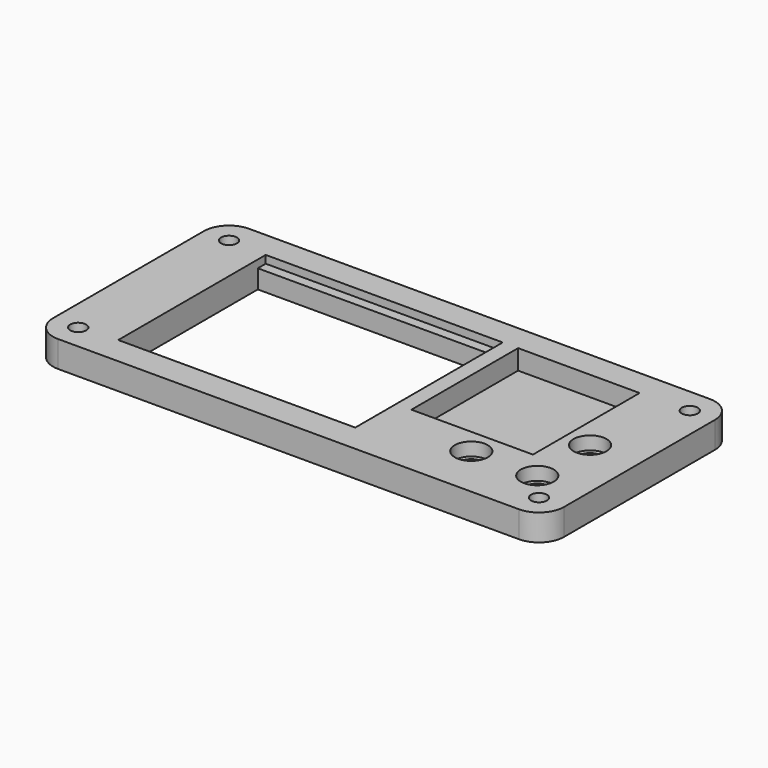
from build123d import *

# Parameters (mm, degrees)
F0_R      = 2.413
F1_DEPTH  = 8
F2_W      = 69.36
F2_H      = 50.39
F3_DEPTH  = 25.4
F4_W      = 69.36
F4_H      = 50.39
F5_DEPTH  = 2.35
F6_DEPTH  = 2
F7_R      = 5
F8_DEPTH  = 6
F9_R      = 3.625
F10_DEPTH = 25.4
F11_R     = 3.625
F12_DEPTH = 25.4
F13_R     = 3.625
F14_DEPTH = 25.4
F15_R     = 2.413
F15_R_2   = 5
F15_W     = 71.86
F15_H     = 55.89
F16_DEPTH = 2
F17_W     = 36.8478260934
F17_H     = 40.4230296794
F18_DEPTH = 6


with BuildPart() as f1:
    # F0 (on Top) → F1 (new body)
    with BuildSketch(Plane.XY):
        with BuildLine():
            ThreePointArc((-69.85, 36.195), (-75.2381536726, 33.9631536726), (-77.47, 28.575))
            Line((-77.47, 28.575), (-77.47, 0))
            Line((-77.47, 0), (-77.47, -28.575))
            ThreePointArc((-77.47, -28.575), (-75.2381536726, -33.9631536726), (-69.85, -36.195))
            Line((-69.85, -36.195), (0, -36.195))
            Line((0, -36.195), (69.85, -36.195))
            ThreePointArc((69.85, -36.195), (75.2381536726, -33.9631536726), (77.47, -28.575))
            Line((77.47, -28.575), (77.47, 0))
            Line((77.47, 0), (77.47, 28.575))
            ThreePointArc((77.47, 28.575), (75.2381536726, 33.9631536726), (69.85, 36.195))
            Line((69.85, 36.195), (0, 36.195))
            Line((0, 36.195), (-69.85, 36.195))
        make_face()
        with Locations((-69.85, -28.575)):
            Circle(F0_R, mode=Mode.SUBTRACT)
        with Locations((69.85, -28.575)):
            Circle(F0_R, mode=Mode.SUBTRACT)
        with Locations((-69.85, 28.575)):
            Circle(F0_R, mode=Mode.SUBTRACT)
        with Locations((69.85, 28.575)):
            Circle(F0_R, mode=Mode.SUBTRACT)
    extrude(amount=F1_DEPTH)

    # F2 (on face) → F3 (cut)
    with BuildSketch(Plane(origin=(0, 0, 0), x_dir=(1, 0, 0), z_dir=(0, 0, -1))):
        with Locations((-23.74, 0.000232)):
            Rectangle(F2_W, F2_H)
    extrude(amount=-F3_DEPTH, mode=Mode.SUBTRACT)

    # F4 (on face) → F5 (cut)
    with BuildSketch(Plane.XY.offset(8)):
        with Locations((-23.74, -0.000232)):
            Rectangle(F4_W, F4_H)
        Polygon((-58.42, -25.195232), (-58.42, -27.695232), (13.44, -27.695232), (13.44, 28.194768), (-58.42, 28.194768), (-58.42, 25.194768), (10.94, 25.194768), (10.94, -25.195232), align=None)
    extrude(amount=-F5_DEPTH, mode=Mode.SUBTRACT)

    # F6 (add): a face of the model
    f6_faces = [f1.faces().sort_by_distance(p)[0] for p in [
        (-74.0288829068, 32.7538829068, 8),
    ]]
    extrude(f6_faces, amount=F6_DEPTH)

    # F7 (on face) → F8 (cut)
    with BuildSketch(Plane.XY.offset(10)):
        with Locations((62.47, -20)):
            Circle(F7_R)
        with Locations((42.47, -20)):
            Circle(F7_R)
        with Locations((62.47, 0)):
            Circle(F7_R)
    extrude(amount=-F8_DEPTH, mode=Mode.SUBTRACT)

    # F9 (on face) → F10 (cut)
    with BuildSketch(Plane.XY.offset(4)):
        with Locations((62.47, 0)):
            Circle(F9_R)
    extrude(amount=-F10_DEPTH, mode=Mode.SUBTRACT)

    # F11 (on face) → F12 (cut)
    with BuildSketch(Plane.XY.offset(4)):
        with Locations((62.47, -20)):
            Circle(F11_R)
    extrude(amount=-F12_DEPTH, mode=Mode.SUBTRACT)

    # F13 (on face) → F14 (cut)
    with BuildSketch(Plane.XY.offset(4)):
        with Locations((42.47, -20)):
            Circle(F13_R)
    extrude(amount=-F14_DEPTH, mode=Mode.SUBTRACT)

    # F15 (on face) → F16 (cut)
    with BuildSketch(Plane.XY.offset(10)):
        with BuildLine():
            Line((69.85, 36.195), (-69.85, 36.195))
            ThreePointArc((-69.85, 36.195), (-75.2381536726, 33.9631536726), (-77.47, 28.575))
            Line((-77.47, 28.575), (-77.47, -28.575))
            ThreePointArc((-77.47, -28.575), (-75.2381536726, -33.9631536726), (-69.85, -36.195))
            Line((-69.85, -36.195), (69.85, -36.195))
            ThreePointArc((69.85, -36.195), (75.2381536726, -33.9631536726), (77.47, -28.575))
            Line((77.47, -28.575), (77.47, 28.575))
            ThreePointArc((77.47, 28.575), (75.2381536726, 33.9631536726), (69.85, 36.195))
        make_face()
        with Locations((-69.85, -28.575)):
            Circle(F15_R, mode=Mode.SUBTRACT)
        with Locations((69.85, -28.575)):
            Circle(F15_R, mode=Mode.SUBTRACT)
        with Locations((42.47, -20)):
            Circle(F15_R_2, mode=Mode.SUBTRACT)
        with Locations((62.47, -20)):
            Circle(F15_R_2, mode=Mode.SUBTRACT)
        with Locations((-22.49, 0.249768)):
            Rectangle(F15_W, F15_H, mode=Mode.SUBTRACT)
        with Locations((-69.85, 28.575)):
            Circle(F15_R, mode=Mode.SUBTRACT)
        with Locations((62.47, 0)):
            Circle(F15_R_2, mode=Mode.SUBTRACT)
        with Locations((69.85, 28.575)):
            Circle(F15_R, mode=Mode.SUBTRACT)
    extrude(amount=-F16_DEPTH, mode=Mode.SUBTRACT)

    # F17 (on face) → F18 (cut)
    with BuildSketch(Plane.XY.offset(8)):
        with Locations((36.5217383951, 7.9832531603)):
            Rectangle(F17_W, F17_H)
    extrude(amount=-F18_DEPTH, mode=Mode.SUBTRACT)


solid = f1.part
